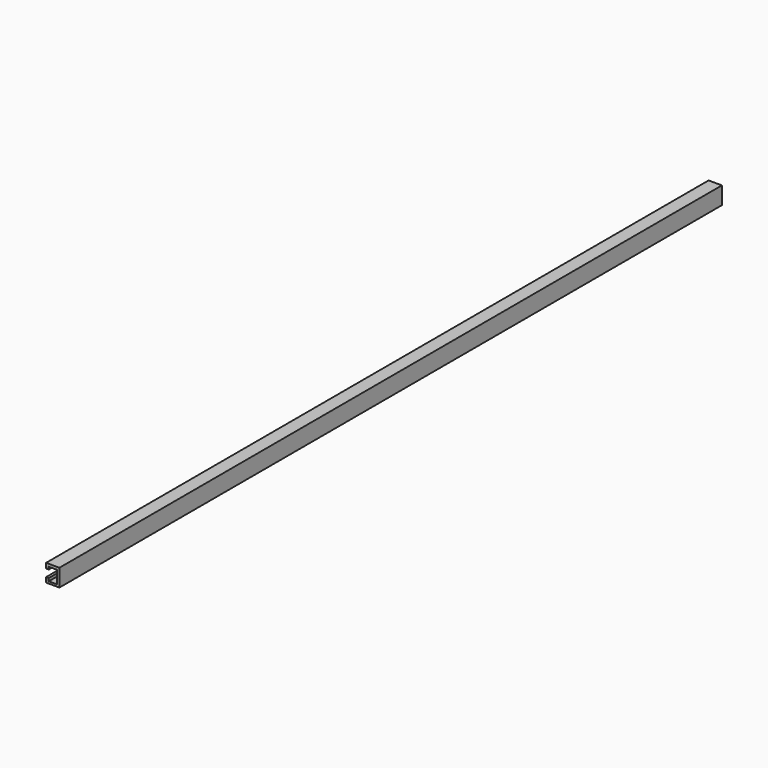
from build123d import *

# Parameters (mm, degrees)
F1_DEPTH = 25.4
F2_DEPTH = 5000


with BuildPart() as f1:
    # F0 (on Front) → F1 (new body)
    with BuildSketch(Plane.XZ):
        Polygon((47.601573, 54.445572), (-33.330224, 54.445572), (-33.330224, 23.639277), (-17.14386, 23.639277), (-17.14386, 38.781356), (33.503778, 38.781356), (33.503778, -39.017603), (-17.14386, -39.017603), (-17.14386, -21.786958), (-33.330224, -21.786958), (-33.330224, -51.548973), (47.601573, -51.548973), align=None)
    extrude(amount=F1_DEPTH)

    # F1_face (on face) → F2 (join)
    with BuildSketch(Plane(origin=(12.180467, 0, 3.128197), x_dir=(1, 0, 0), z_dir=(0, 1, 0))):
        Polygon((-45.510691, -51.317375), (35.421106, -51.317375), (35.421106, 54.67717), (-45.510691, 54.67717), (-45.510691, 24.915155), (-29.324327, 24.915155), (-29.324327, 42.1458), (21.323311, 42.1458), (21.323311, -35.653159), (-29.324327, -35.653159), (-29.324327, -20.51108), (-45.510691, -20.51108), align=None)
    extrude(amount=F2_DEPTH)


solid = f1.part
